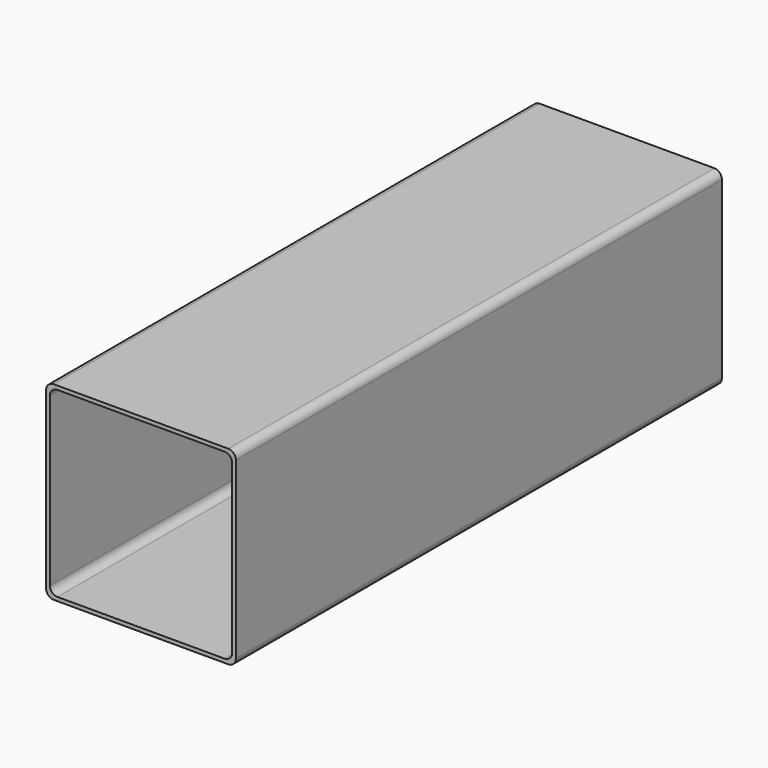
from build123d import *

# Parameters (mm, degrees)
F1_DEPTH = 203.2


with BuildPart() as f1:
    # F0 (on Front) → F1 (new body)
    with BuildSketch(Plane.XZ):
        with BuildLine():
            ThreePointArc((31.75, 29.21), (31.006051, 31.006051), (29.21, 31.75))
            Line((29.21, 31.75), (-29.21, 31.75))
            ThreePointArc((-29.21, 31.75), (-31.006051, 31.006051), (-31.75, 29.21))
            Line((-31.75, 29.21), (-31.75, -29.21))
            ThreePointArc((-31.75, -29.21), (-31.006051, -31.006051), (-29.21, -31.75))
            Line((-29.21, -31.75), (29.21, -31.75))
            ThreePointArc((29.21, -31.75), (31.006051, -31.006051), (31.75, -29.21))
            Line((31.75, -29.21), (31.75, 29.21))
        make_face()
        with BuildLine():
            Line((-27.94, 30.48), (27.94, 30.48))
            ThreePointArc((27.94, 30.48), (29.736051, 29.736051), (30.48, 27.94))
            Line((30.48, 27.94), (30.48, -27.94))
            ThreePointArc((30.48, -27.94), (29.736051, -29.736051), (27.94, -30.48))
            Line((27.94, -30.48), (-27.94, -30.48))
            ThreePointArc((-27.94, -30.48), (-29.736051, -29.736051), (-30.48, -27.94))
            Line((-30.48, -27.94), (-30.48, 27.94))
            ThreePointArc((-30.48, 27.94), (-29.736051, 29.736051), (-27.94, 30.48))
        make_face(mode=Mode.SUBTRACT)
    extrude(amount=F1_DEPTH)


solid = f1.part
